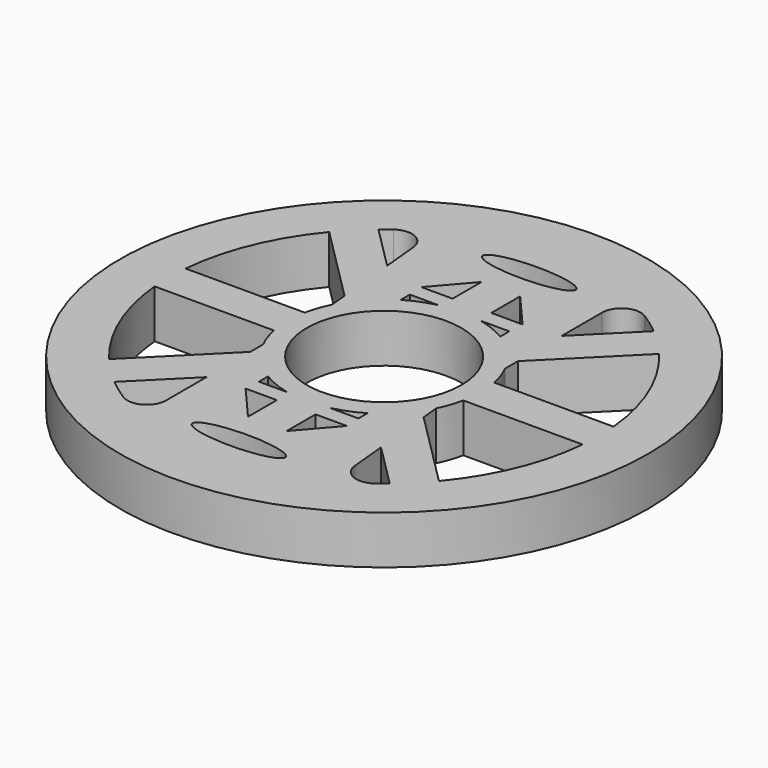
from build123d import *

# Parameters (mm, degrees)
F0_R      = 27.305
F0_R_2    = 3.125
F1_DEPTH  = 5
F2_R      = 7.5
F2_R_2    = 3.125
F3_DEPTH  = 4
F4_R      = 6.096
F7_DEPTH  = 5.001
F10_R     = 0.662213
F11_DEPTH = 9.001
F12_W     = 13.650434
F12_H     = 4
F12_W_2   = 4
F12_H_2   = 13.650434
F13_DEPTH = 5
F15_DEPTH = 12.7
F16_W     = 10.29484
F16_H     = 1.244958
F17_DEPTH = 12.7
F18_R     = 8
F19_DEPTH = 12.7
F20_R     = 8
F21_DEPTH = 5


with BuildPart() as f1:
    # F0 (on Top) → F1 (new body)
    with BuildSketch(Plane.XY):
        Circle(F0_R)
        with BuildLine():
            Line((-10.097842, 16.405938), (-8.950036, 4.46059))
            ThreePointArc((-8.950036, 4.46059), (-10, 0), (-8.950036, -4.46059))
            Line((-8.950036, -4.46059), (-8.950036, -17.004333))
            ThreePointArc((-8.950036, -17.004333), (-9.992342, -18.76013), (-12.032858, -18.685849))
            ThreePointArc((-12.032858, -18.685849), (-22.211956, -0.761352), (-13.284091, 17.818068))
            ThreePointArc((-13.284091, 17.818068), (-11.278303, 18.043112), (-10.097842, 16.405938))
        make_face(mode=Mode.SUBTRACT)
        Circle(F0_R_2, mode=Mode.SUBTRACT)
        with BuildLine():
            Line((8.950036, 4.46059), (8.950036, 17.004333))
            ThreePointArc((8.950036, 17.004333), (9.992342, 18.76013), (12.032858, 18.685849))
            ThreePointArc((12.032858, 18.685849), (22.211956, 0.761352), (13.284091, -17.818068))
            ThreePointArc((13.284091, -17.818068), (11.278303, -18.043112), (10.097842, -16.405938))
            Line((10.097842, -16.405938), (8.950036, -4.46059))
            ThreePointArc((8.950036, -4.46059), (10, 0), (8.950036, 4.46059))
        make_face(mode=Mode.SUBTRACT)
    extrude(amount=F1_DEPTH)

    # F2 (on face) → F3 (join)
    with BuildSketch(Plane.XY.offset(5)):
        Circle(F2_R)
        Circle(F2_R_2, mode=Mode.SUBTRACT)
    extrude(amount=F3_DEPTH)

    # F4 (on Front) → F5 (revolve, cut)
    with BuildSketch(Plane.XZ):
        with Locations((-9.469913, 12.312098)):
            Circle(F4_R)
    revolve(axis=Axis((0, 0, 5.050069), (0, 0, -1)), mode=Mode.SUBTRACT)

    # F6 (on face) → F7 (cut, through all)
    with BuildSketch(Plane.XY.offset(5)):
        Polygon((0, 17.41166), (0, 11.362989), (5.234685, 11.362989), align=None)
        Polygon((-5.234685, 11.362989), (0, 11.362989), (0, 17.41166), align=None)
        Polygon((0, -11.362989), (-5.234685, -11.362989), (0, -17.41166), (5.234685, -11.362989), align=None)
    extrude(amount=-F7_DEPTH, mode=Mode.SUBTRACT)

    # F8 (on Front) → F9 (revolve, cut)
    with BuildSketch(Plane.XZ):
        Polygon((-25.495, 3.902024), (-25.495, 2.402024), (-23.495, 2.402024), align=None)
        Polygon((-23.495, 2.402024), (-25.495, 2.402024), (-25.495, 0.902024), align=None)
    revolve(axis=Axis((0, 0, 20.538263), (0, 0, -1)), mode=Mode.SUBTRACT)

    # F10 (on face) → F11 (cut, through all)
    with BuildSketch(Plane.XY):
        with Locations((0, 5.743192)):
            Circle(F10_R)
        with Locations((-4.06105, 4.06105)):
            Circle(F10_R)
        with Locations((-5.743192, 0)):
            Circle(F10_R)
        with Locations((-4.06105, -4.06105)):
            Circle(F10_R)
        with Locations((0, -5.743192)):
            Circle(F10_R)
        with Locations((4.06105, -4.06105)):
            Circle(F10_R)
        with Locations((5.743192, 0)):
            Circle(F10_R)
        with Locations((4.06105, 4.06105)):
            Circle(F10_R)
    extrude(amount=F11_DEPTH, mode=Mode.SUBTRACT)

    # F12 (on Top) → F13 (join)
    with BuildSketch(Plane.XY):
        with Locations((-15.625295, 0)):
            Rectangle(F12_W, F12_H)
        Polygon((-14.460696, -17.289123), (-4.808381, -7.636809), (-7.636809, -4.808381), (-17.289123, -14.460696), align=None)
        with Locations((0, -15.625295)):
            Rectangle(F12_W_2, F12_H_2)
        Polygon((17.289123, -14.460696), (7.636809, -4.808381), (4.808381, -7.636809), (14.460696, -17.289123), align=None)
        with Locations((15.625295, 0)):
            Rectangle(F12_W, F12_H)
        Polygon((14.460696, 17.289123), (4.808381, 7.636809), (7.636809, 4.808381), (17.289123, 14.460696), align=None)
        with Locations((0, 15.625295)):
            Rectangle(F12_W_2, F12_H_2)
        Polygon((-17.289123, 14.460696), (-7.636809, 4.808381), (-4.808381, 7.636809), (-14.460696, 17.289123), align=None)
    extrude(amount=F13_DEPTH)

    # F14 (on Top) → F15 (cut, symmetric)
    with BuildSketch(Plane.XY):
        with BuildLine():
            add(Edge.make_bspline(
                [(4.797351, 18.771529), (4.797351, 20.801119), (-2.398675, 19.786324), (-9.594701, 18.771529), (-2.398675, 17.756734), (4.797351, 16.74194), (4.797351, 18.771529)],
                knots=[0, 0, 0, 2.094395, 2.094395, 4.18879, 4.18879, 6.283185, 6.283185, 6.283185], degree=2, weights=[1, 0.5, 1, 0.5, 1, 0.5, 1]))
        make_face()
        with BuildLine():
            add(Edge.make_bspline(
                [(-4.797351, -18.771529), (-4.797351, -20.801119), (2.398675, -19.786324), (9.594701, -18.771529), (2.398675, -17.756734), (-4.797351, -16.74194), (-4.797351, -18.771529)],
                knots=[0, 0, 0, 2.094395, 2.094395, 4.18879, 4.18879, 6.283185, 6.283185, 6.283185], degree=2, weights=[1, 0.5, 1, 0.5, 1, 0.5, 1]))
        make_face()
    extrude(amount=F15_DEPTH, both=True, mode=Mode.SUBTRACT)

    # F16 (on Top) → F17 (cut, symmetric)
    with BuildSketch(Plane.XY):
        with Locations((0, 9.133866)):
            Rectangle(F16_W, F16_H)
        with Locations((0, -9.133866)):
            Rectangle(F16_W, F16_H)
    extrude(amount=F17_DEPTH, both=True, mode=Mode.SUBTRACT)

    # F18 (on face) → F19 (cut, symmetric)
    with BuildSketch(Plane.XY.offset(5)):
        Circle(F18_R)
    extrude(amount=F19_DEPTH, both=True, mode=Mode.SUBTRACT)

    # F20 (on face) → F21 (join)
    with BuildSketch(Plane.XY.offset(5)):
        with BuildLine():
            ThreePointArc((-2.194021, -9.756345), (0, -10), (2.194021, -9.756345))
            Line((2.194021, -9.756345), (-2.194021, -9.756345))
        make_face()
        with BuildLine():
            Line((5.14742, 8.511387), (5.14742, 8.573451))
            ThreePointArc((5.14742, 8.573451), (3.718064, 9.283103), (2.194021, 9.756345))
            Line((2.194021, 9.756345), (-2.194021, 9.756345))
            ThreePointArc((-2.194021, 9.756345), (-3.718064, 9.283103), (-5.14742, 8.573451))
            Line((-5.14742, 8.573451), (-5.14742, 8.511387))
            Line((-5.14742, 8.511387), (5.14742, 8.511387))
        make_face()
        with BuildLine():
            ThreePointArc((9.797959, -2), (9.949362, -1.00509), (10, 0))
            ThreePointArc((10, 0), (9.949362, 1.00509), (9.797959, 2))
            ThreePointArc((9.797959, 2), (9.454388, 3.257998), (8.950036, 4.46059))
            ThreePointArc((8.950036, 4.46059), (7.342579, 6.788706), (5.14742, 8.573451))
            Line((5.14742, 8.573451), (5.14742, 8.511387))
            Line((5.14742, 8.511387), (-5.14742, 8.511387))
            Line((-5.14742, 8.511387), (-5.14742, 8.573451))
            ThreePointArc((-5.14742, 8.573451), (-7.342579, 6.788706), (-8.950036, 4.46059))
            ThreePointArc((-8.950036, 4.46059), (-9.454388, 3.257998), (-9.797959, 2))
            ThreePointArc((-9.797959, 2), (-10, 0), (-9.797959, -2))
            ThreePointArc((-9.797959, -2), (-9.454388, -3.257998), (-8.950036, -4.46059))
            ThreePointArc((-8.950036, -4.46059), (-7.342579, -6.788706), (-5.14742, -8.573451))
            Line((-5.14742, -8.573451), (-5.14742, -8.511387))
            Line((-5.14742, -8.511387), (5.14742, -8.511387))
            Line((5.14742, -8.511387), (5.14742, -8.573451))
            ThreePointArc((5.14742, -8.573451), (7.342579, -6.788706), (8.950036, -4.46059))
            ThreePointArc((8.950036, -4.46059), (9.454388, -3.257998), (9.797959, -2))
        make_face()
        Circle(F20_R, mode=Mode.SUBTRACT)
        with BuildLine():
            ThreePointArc((2.194021, -9.756345), (3.718064, -9.283103), (5.14742, -8.573451))
            Line((5.14742, -8.573451), (5.14742, -8.511387))
            Line((5.14742, -8.511387), (-5.14742, -8.511387))
            Line((-5.14742, -8.511387), (-5.14742, -8.573451))
            ThreePointArc((-5.14742, -8.573451), (-3.718064, -9.283103), (-2.194021, -9.756345))
            Line((-2.194021, -9.756345), (2.194021, -9.756345))
        make_face()
        with BuildLine():
            Line((-2.194021, 9.756345), (2.194021, 9.756345))
            ThreePointArc((2.194021, 9.756345), (0, 10), (-2.194021, 9.756345))
        make_face()
    extrude(amount=-F21_DEPTH)


solid = f1.part
